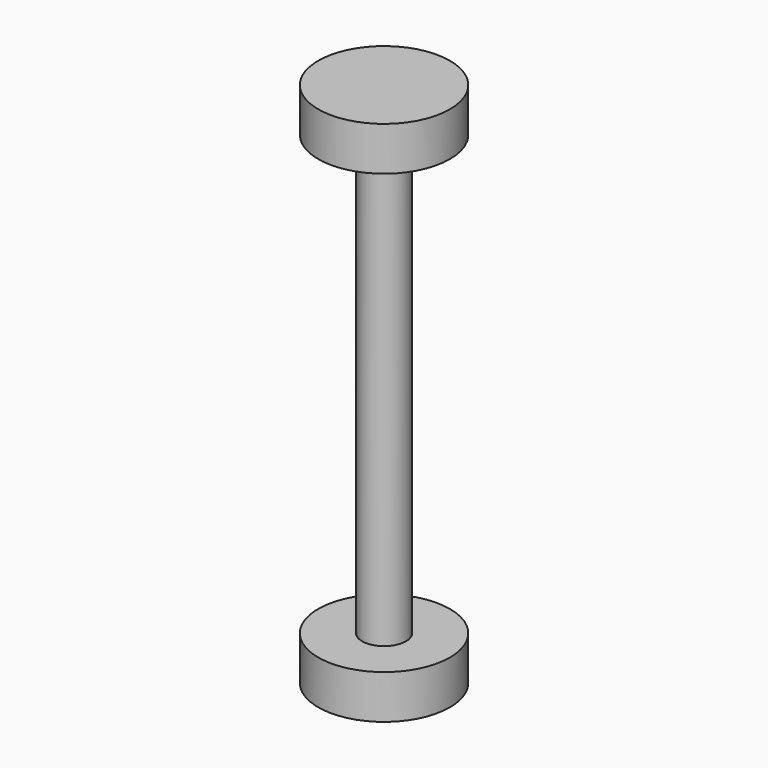
from build123d import *

# Parameters (mm, degrees)
F0_R     = 3.175
F1_DEPTH = 38.1
F2_R     = 9.525
F3_DEPTH = 6.35
F4_R     = 9.525
F5_DEPTH = 6.35


with BuildPart() as f1:
    # F0 (on Top) → F1 (new body, symmetric)
    with BuildSketch(Plane.XY):
        Circle(F0_R)
    extrude(amount=F1_DEPTH, both=True)

    # F2 (on face) → F3 (join)
    with BuildSketch(Plane(origin=(0, 0, -38.1), x_dir=(1, 0, 0), z_dir=(0, 0, -1))):
        Circle(F2_R)
    extrude(amount=-F3_DEPTH)

    # F4 (on face) → F5 (join)
    with BuildSketch(Plane.XY.offset(38.1)):
        Circle(F4_R)
    extrude(amount=-F5_DEPTH)


solid = f1.part
